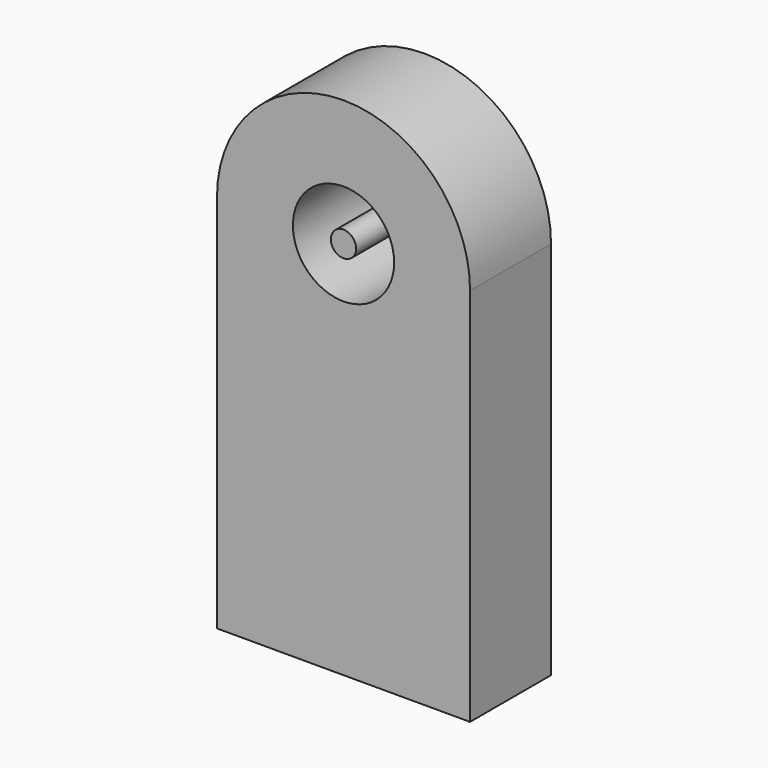
from build123d import *

# Parameters (mm, degrees)
F0_R     = 4
F1_DEPTH = 8
F2_R     = 1
F3_DEPTH = 8


with BuildPart() as f1:
    # F0 (on Front) → F1 (new body)
    with BuildSketch(Plane.XZ):
        with BuildLine():
            Line((10, 0), (10, 30))
            ThreePointArc((10, 30), (0, 40), (-10, 30))
            Line((-10, 30), (-10, 0))
            Line((-10, 0), (10, 0))
        make_face()
        with Locations((0, 30)):
            Circle(F0_R, mode=Mode.SUBTRACT)
    extrude(amount=F1_DEPTH)


with BuildPart() as f3:
    # F2 (on Front) → F3 (new body)
    with BuildSketch(Plane.XZ):
        with Locations((0, 30)):
            Circle(F2_R)
    extrude(amount=F3_DEPTH)


solid = Compound([f1.part, f3.part])
